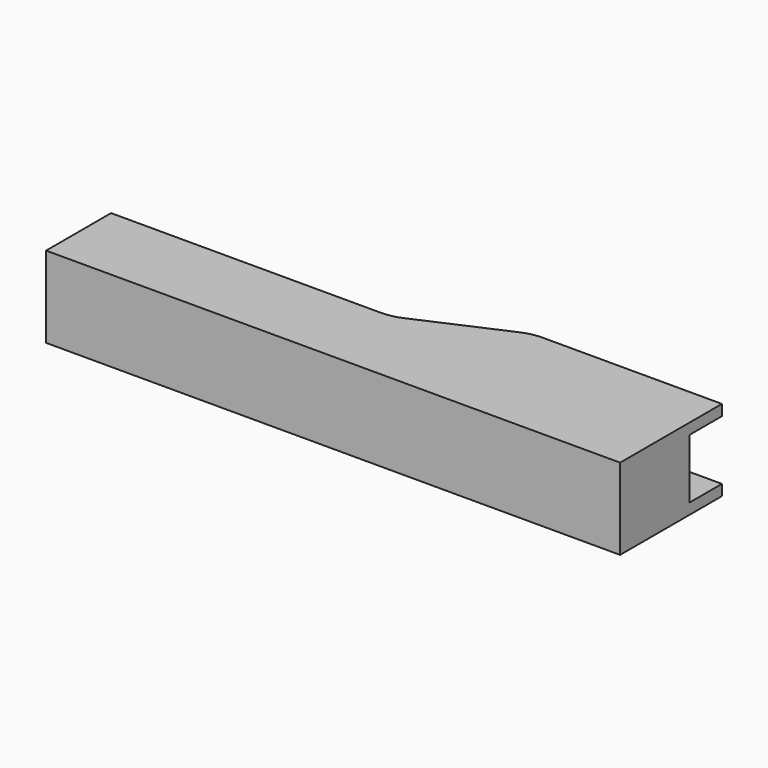
from build123d import *

# Parameters (mm, degrees)
F1_DEPTH  = 28
F2_W      = 211.909
F2_H      = 3
F3_DEPTH  = 15
F4_W      = 70
F4_H      = 3
F5_DEPTH  = 15
F7_DEPTH  = 3
F8_R      = 18.2181512029
F10_DEPTH = 3
F11_R     = 18.218
F13_DEPTH = 1
F15_DEPTH = 1


with BuildPart() as f1:
    # F0 (on Top) → F1 (new body)
    with BuildSketch(Plane.XY):
        with BuildLine():
            Line((23.2926856095, 0), (-81.7073143905, 0))
            Line((-81.7073143905, 0), (-81.7073143905, -15))
            Line((-81.7073143905, -15), (130.2926856095, -15))
            Line((130.2926856095, -15), (130.2926856095, 17))
            Line((130.2926856095, 17), (60.2926856095, 17))
            add(Edge.make_bspline(
                [(60.2926856095, 17), (47.0403235396, 17), (38.2657825675, 0), (23.2926856095, 0)],
                knots=[0, 0, 0, 0, 40.718546143, 40.718546143, 40.718546143, 40.718546143], degree=3))
        make_face()
        with BuildLine():
            Line((23.2926856095, 0), (-81.7073143905, 0))
            Line((-81.7073143905, 0), (-81.7073143905, -15))
            Line((-81.7073143905, -15), (130.2926856095, -15))
            Line((130.2926856095, -15), (130.2926856095, 17))
            Line((130.2926856095, 17), (60.2926856095, 17))
            add(Edge.make_bspline(
                [(60.2926856095, 17), (47.0403235396, 17), (38.2657825675, 0), (23.2926856095, 0)],
                knots=[0, 0, 0, 0, 40.718546143, 40.718546143, 40.718546143, 40.718546143], degree=3))
        make_face()
    extrude(amount=-F1_DEPTH)

    # F2 (on face) → F3 (join)
    with BuildSketch(Plane(origin=(0, 0, 0), x_dir=(-1, 0, 0), z_dir=(0, 1, 0))):
        with Locations((-24.2471856095, -1.5)):
            Rectangle(F2_W, F2_H)
        with Locations((-24.2471856095, -26.5)):
            Rectangle(F2_W, F2_H)
    extrude(amount=F3_DEPTH)

    # F4 (on face) → F5 (join)
    with BuildSketch(Plane(origin=(0, 17, 0), x_dir=(-1, 0, 0), z_dir=(0, 1, 0))):
        with Locations((-95.2926856095, -26.5)):
            Rectangle(F4_W, F4_H)
        with Locations((-95.2926856095, -1.5)):
            Rectangle(F4_W, F4_H)
    extrude(amount=F5_DEPTH)

    # F6 (on face) → F7 (join)
    with BuildSketch(Plane.XY):
        Polygon((64.7905170918, 0), (60.2926856095, 32), (21.7418372631, 15), (26.0446537286, -15), align=None)
    extrude(amount=-F7_DEPTH)

    # F8
    f8_edges = [f1.edges().sort_by_distance(p)[0] for p in [
        (60.292686, 32, -1.5),
        (21.741837, 15, -1.5),
    ]]
    fillet(f8_edges, radius=F8_R)

    # F9 (on face) → F10 (join)
    with BuildSketch(Plane(origin=(0, 0, -28), x_dir=(1, 0, 0), z_dir=(0, 0, -1))):
        Polygon((24.2926856095, -15), (60.2926856095, -32), (60.2926856095, -17), (52.3001670697, -15), align=None)
    extrude(amount=-F10_DEPTH)

    # F11
    f11_edges = [f1.edges().sort_by_distance(p)[0] for p in [
        (60.292686, 32, -26.5),
        (24.292686, 15, -26.5),
    ]]
    fillet(f11_edges, radius=F11_R)

    # F12 (on face) → F13 (join)
    with BuildSketch(Plane.XY):
        with BuildLine():
            Line((130.2926856095, -15), (130.2926856095, 32))
            Line((130.2926856095, 32), (64.1312427554, 32))
            ThreePointArc((64.1312427554, 32), (60.3751547463, 31.6085937641), (56.7804614092, 30.4511933209))
            Line((56.7804614092, 30.4511933209), (25.2540614634, 16.5488066791))
            ThreePointArc((25.2540614634, 16.5488066791), (21.6593681263, 15.3914062359), (17.9032801172, 15))
            Line((17.9032801172, 15), (-81.7073143905, 15))
            Line((-81.7073143905, 15), (-81.7073143905, -15))
            Line((-81.7073143905, -15), (26.0446537286, -15))
            Line((26.0446537286, -15), (130.2926856095, -15))
        make_face()
    extrude(amount=F13_DEPTH)

    # F14 (on face) → F15 (join)
    with BuildSketch(Plane(origin=(0, 0, -28), x_dir=(1, 0, 0), z_dir=(0, 0, -1))):
        with BuildLine():
            ThreePointArc((20.2075043569, -15), (24.1936958703, -15.4414479941), (27.9867052288, -16.7443981536))
            Line((27.9867052288, -16.7443981536), (56.5986659901, -30.2556018464))
            ThreePointArc((56.5986659901, -30.2556018464), (60.3916753487, -31.5585520059), (64.3778668621, -32))
            Line((64.3778668621, -32), (130.2926856095, -32))
            Line((130.2926856095, -32), (130.2926856095, 15))
            Line((130.2926856095, 15), (-81.7073143905, 15))
            Line((-81.7073143905, 15), (-81.7073143905, -15))
            Line((-81.7073143905, -15), (20.2075043569, -15))
        make_face()
    extrude(amount=F15_DEPTH)


solid = f1.part
